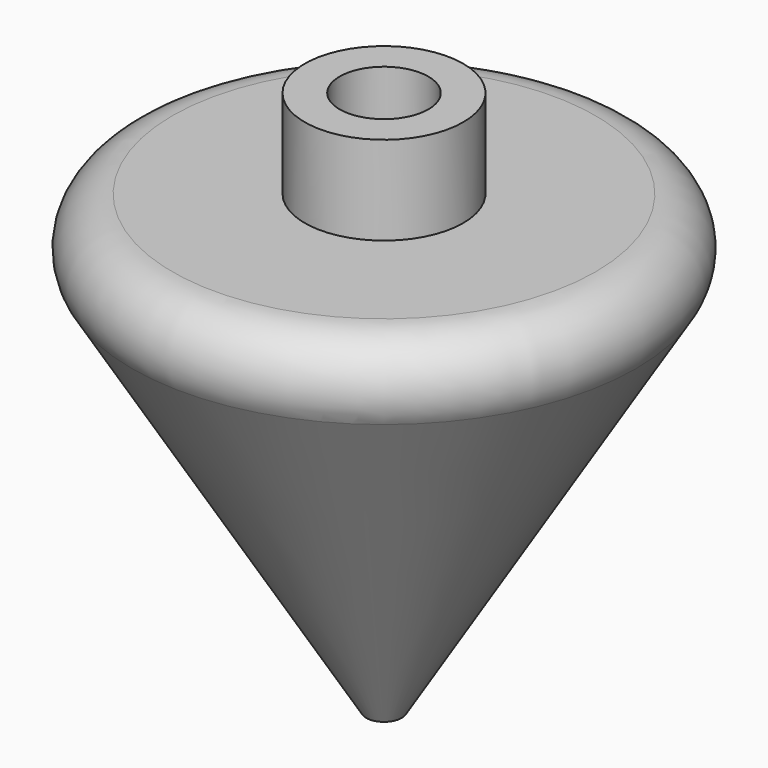
from build123d import *

# Parameters (mm, degrees)
F2_R     = 4.7625
F3_DEPTH = 9.525
F4_R     = 0.9525
F5_DEPTH = 22.225


with BuildPart() as f1:
    # F0 (on Front) → F1 (revolve)
    with BuildSketch(Plane.XZ):
        with BuildLine():
            Line((0, 58.42), (0, 0))
            Line((0, 0), (1.905, 0))
            Line((1.905, 0), (27.03371, 41.168312))
            ThreePointArc((27.03371, 41.168312), (27.127747, 46.301084), (22.697647, 48.895))
            Line((22.697647, 48.895), (8.504043, 48.895))
            Line((8.504043, 48.895), (8.504043, 58.42))
            Line((8.504043, 58.42), (0, 58.42))
        make_face()
    revolve(axis=Axis((0, 0, 29.21), (0, 0, -1)))

    # F2 (on face) → F3 (cut)
    with BuildSketch(Plane.XY.offset(58.42)):
        Circle(F2_R)
    extrude(amount=-F3_DEPTH, mode=Mode.SUBTRACT)

    # F4 (on face) → F5 (cut)
    with BuildSketch(Plane(origin=(0, 0, 0), x_dir=(1, 0, 0), z_dir=(0, 0, -1))):
        Circle(F4_R)
    extrude(amount=-F5_DEPTH, mode=Mode.SUBTRACT)


solid = f1.part
